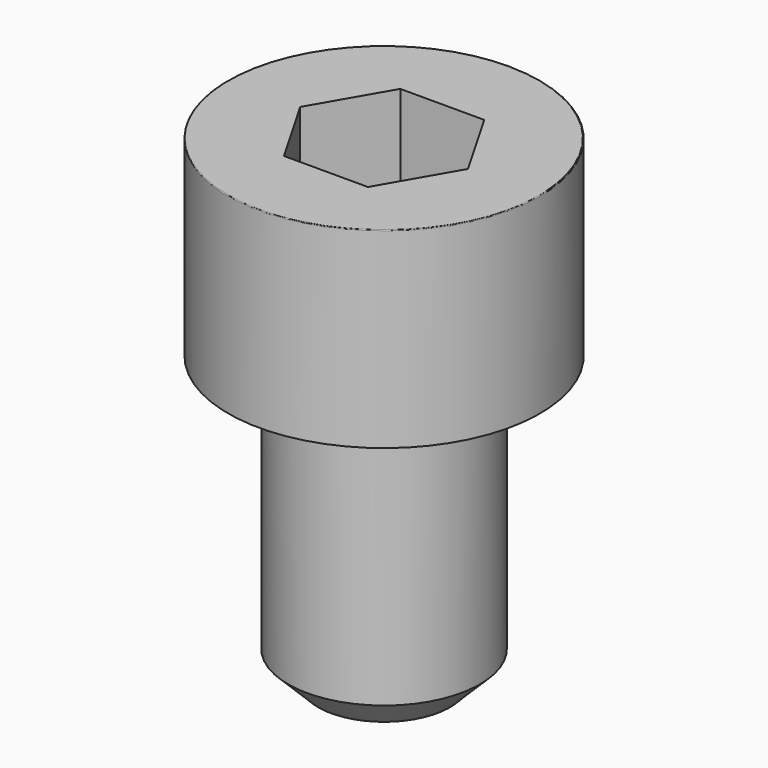
from build123d import *

# Parameters (mm, degrees)
POCKET_DEPTH = 6.06


with BuildPart() as part:
    # Sketch → Revolve (revolve)
    with BuildSketch(Plane.YZ):
        with BuildLine():
            Line((3.999, 0), (6.5, 0))
            Line((6.5, 0), (6.5, 7.97229))
            ThreePointArc((6.5, 7.97229), (6.491884, 7.991884), (6.47229, 8))
            Line((6.47229, 8), (0, 8))
            Line((0, -12), (0, 8))
            Line((2.75, -12), (0, -12))
            Line((4, -10.75), (2.75, -12))
            Line((4, -0.2), (4, -10.75))
            Line((3.999, 0), (4, -0.2))
        make_face()
    revolve(axis=Axis((0, 0, 0), (0, 0, 1)))

    # Sketch001 → Pocket (cut)
    with BuildSketch(Plane.XY.offset(8)):
        Polygon((3.498743, 0), (1.749371, 3.03), (-1.749371, 3.03), (-3.498743, 0), (-1.749371, -3.03), (1.749371, -3.03), align=None)
    extrude(amount=-POCKET_DEPTH, mode=Mode.SUBTRACT)


solid = part.part
